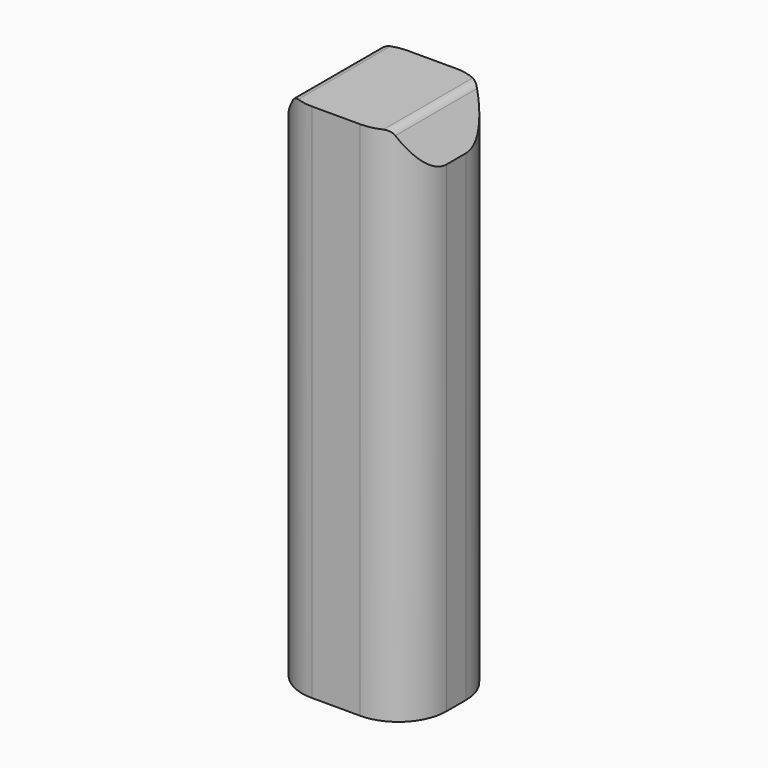
from build123d import *

# Parameters (mm, degrees)
F1_DEPTH = 12.7
F2_R     = 5.08
F3_R     = 1


with BuildPart() as f1:
    # F0 (on Front) → F1 (new body)
    with BuildSketch(Plane.XZ):
        Polygon((-11.409408, 1.629178), (-11.409408, -49.170822), (3.830592, -49.170822), (3.830592, 1.629178), (1.432159, 5.782014), (0, 5.782014), (-8.4836, 5.782014), align=None)
    extrude(amount=F1_DEPTH)

    # F2
    f2_edges = [f1.edges().sort_by_distance(p)[0] for p in [
        (-11.409408, 0, -23.770822),
        (-11.409408, -12.7, -23.770822),
        (3.830592, -12.7, -23.770822),
        (3.830592, 0, -23.770822),
    ]]
    fillet(f2_edges, radius=F2_R)

    # F3
    f3_edges = [f1.edges().sort_by_distance(p)[0] for p in [
        (1.432159, -6.35, 5.782014),
        (-8.4836, -6.35, 5.782014),
    ]]
    fillet(f3_edges, radius=F3_R)


solid = f1.part
